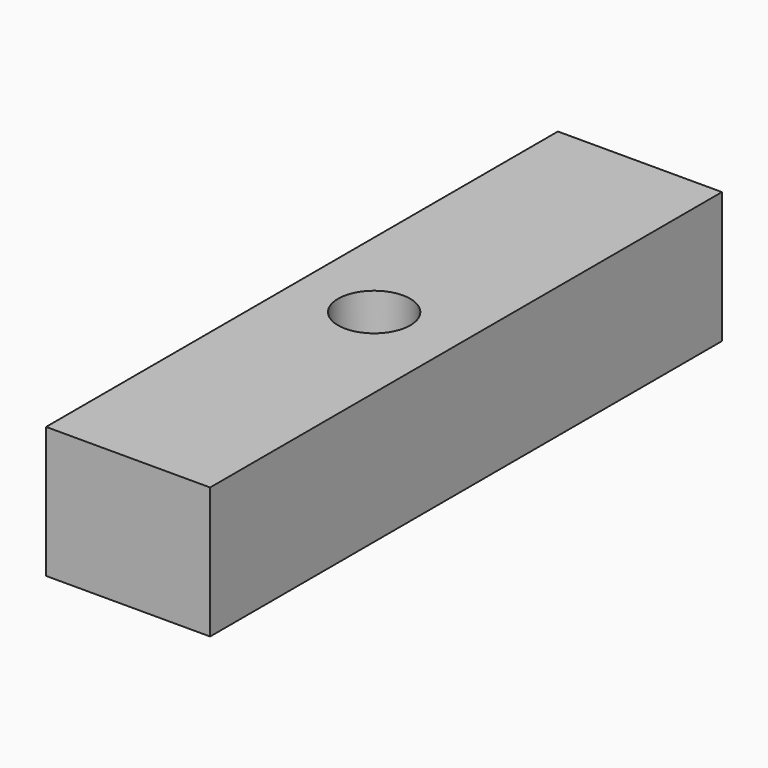
from build123d import *

# Parameters (mm, degrees)
CYLINDER156_R             = 2.2
CYLINDER156_DEPTH         = 50
FUSION076_PLACEMENT_ANGLE = 90
BOX068_W                  = 39
BOX068_H                  = 10
BOX068_DEPTH              = 8
CUT144_ROLL_ANGLE         = 180
CUT144_PLACEMENT_ANGLE    = 90


with BuildPart() as cylinder156:
    # Cylinder156 → Cylinder156 (new body)
    with BuildSketch(Plane(origin=(-24, 26, -8), x_dir=(0, 0, -1), z_dir=(1, 0, 0))):
        Circle(CYLINDER156_R)
    extrude(amount=CYLINDER156_DEPTH)


with BuildPart() as fusion076:
    # Cone018 → Cone018 (revolve)
    with BuildSketch(Plane(origin=(-24, 26, -8), x_dir=(0, 0, 1), z_dir=(0, -1, 0))):
        Polygon((0, 0), (2.2, 0), (4, 5), (0, 5), align=None)
    revolve(axis=Axis((-24, 26, -8), (-1, 0, 0)))

    # Fusion076: union Cylinder156
    add(cylinder156.part)


with BuildPart() as fusion076_1:
    # Fusion076 placement: moved
    add(fusion076.part.moved(Location((111.8, -1.7, 18.4))).rotate(Axis((111.8, -1.7, 18.4), (0, 1, 0)), FUSION076_PLACEMENT_ANGLE))


with BuildPart() as cut144:
    # Box068 → Box068 (new body)
    with BuildSketch(Plane(origin=(84.8, 19.5, 38.7), x_dir=(1, 0, 0), z_dir=(0, 0, 1))):
        with Locations((19.5, 5)):
            Rectangle(BOX068_W, BOX068_H)
    extrude(amount=BOX068_DEPTH)

    # Cut144: cut Fusion076
    add(fusion076_1.part, mode=Mode.SUBTRACT)


with BuildPart() as cut144_1:
    # Cut144 roll: moved
    add(cut144.part.rotate(Axis((0, 0, 0), (1, 0, 0)), CUT144_ROLL_ANGLE))


with BuildPart() as cut144_2:
    # Cut144 placement: moved
    add(cut144_1.part.moved(Location((96, 78.2, 103))).rotate(Axis((96, 78.2, 103), (0, 0, 1)), CUT144_PLACEMENT_ANGLE))


solid = cut144_2.part
